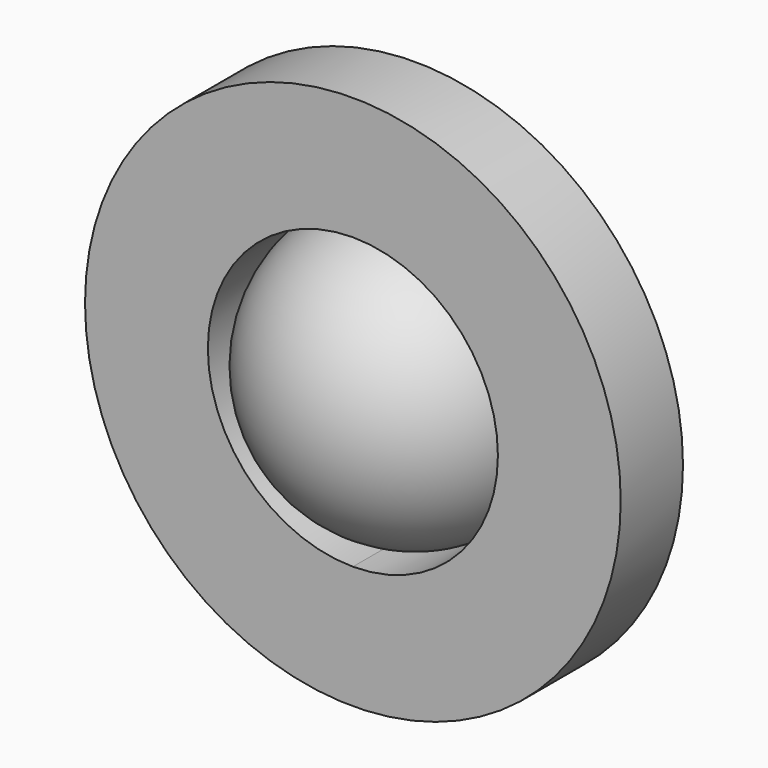
from build123d import *

# Parameters (mm, degrees)
F0_R     = 8.744058
F1_DEPTH = 2.54
F2_ANGLE = -180


with BuildPart() as f1:
    # F0 (on Front) → F1 (new body)
    with BuildSketch(Plane.XZ):
        Circle(F0_R)
        with BuildLine():
            ThreePointArc((0, 4.734314), (3.347665, 3.347665), (4.734314, 0))
            ThreePointArc((4.734314, 0), (3.347665, -3.347665), (0, -4.734314))
            ThreePointArc((0, -4.734314), (-4.734314, 0), (0, 4.734314))
        make_face(mode=Mode.SUBTRACT)
    extrude(amount=F1_DEPTH)


with BuildPart() as f2:
    # F0 (on Front) → F2 (revolve)
    with BuildSketch(Plane.XZ):
        with BuildLine():
            Line((0, -4.734314), (0, 4.734314))
            ThreePointArc((0, 4.734314), (-4.734314, 0), (0, -4.734314))
        make_face()
    revolve(axis=Axis((0, 0, 0), (0, 0, -1)), revolution_arc=F2_ANGLE)


solid = Compound([f1.part, f2.part])
